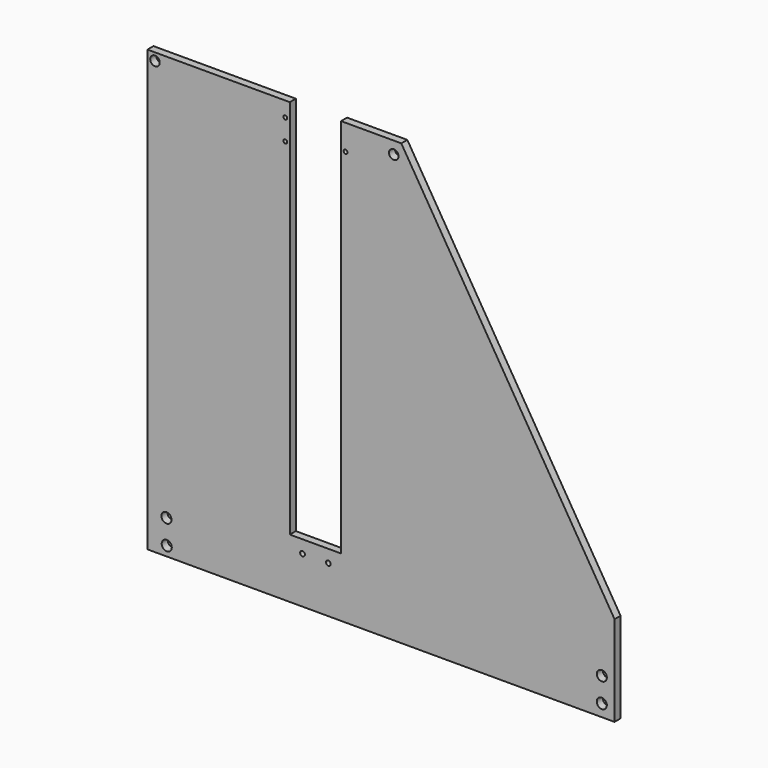
from build123d import *

# Parameters (mm, degrees)
F0_R     = 4.25
F0_R_2   = 4
F1_DEPTH = 6.35
F3_R     = 1.6
F3_R_2   = 2
F4_DEPTH = 25.4


with BuildPart() as f1:
    # F0 (on Front) → F1 (new body)
    with BuildSketch(Plane.XZ):
        Polygon((-199.667193, 247.129236), (-199.667193, -123.710764), (194.032807, -123.710764), (194.032807, -47.510764), (14.312807, 247.129236), (-36.487193, 247.129236), (-36.487193, -73.710764), (-79.667193, -73.710764), (-79.667193, 247.129236), align=None)
        with Locations((-183.389854, -115.598337)):
            Circle(F0_R, mode=Mode.SUBTRACT)
        with Locations((-183.628862, -95.099731)):
            Circle(F0_R, mode=Mode.SUBTRACT)
        with Locations((183.282807, -113.460764)):
            Circle(F0_R, mode=Mode.SUBTRACT)
        with Locations((183.282807, -92.960764)):
            Circle(F0_R, mode=Mode.SUBTRACT)
        with Locations((-193.317193, 240.779236)):
            Circle(F0_R_2, mode=Mode.SUBTRACT)
        with Locations((7.962807, 236.779236)):
            Circle(F0_R_2, mode=Mode.SUBTRACT)
    extrude(amount=F1_DEPTH)

    # F3 (on face) → F4 (cut)
    with BuildSketch(Plane.XZ.offset(6.35)):
        with Locations((-32.677193, 225.606754)):
            Circle(F3_R)
        with Locations((-83.477193, 234.496754)):
            Circle(F3_R)
        with Locations((-83.477193, 216.716754)):
            Circle(F3_R)
        with Locations((-68.967193, -84.410764)):
            Circle(F3_R_2)
        with Locations((-47.187193, -84.410764)):
            Circle(F3_R_2)
    extrude(amount=-F4_DEPTH, mode=Mode.SUBTRACT)


solid = f1.part
